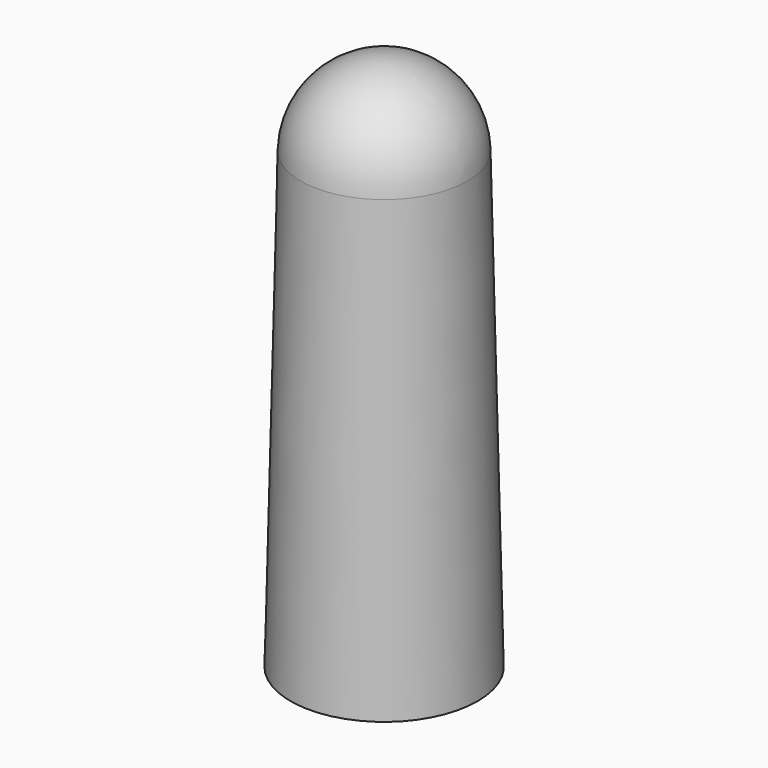
from build123d import *


with BuildPart() as f2:
    # F0 (on Front) → F2 (revolve)
    with BuildSketch(Plane.XZ):
        with BuildLine():
            ThreePointArc((0, 76.2), (6.393773, 73.593938), (9.144, 67.260838))
            Line((9.144, 67.260838), (10.668, 0))
            Line((10.668, 0), (13.842185, 0.071921))
            Line((13.842185, 0.071921), (12.318185, 67.332759))
            ThreePointArc((12.318185, 67.332759), (8.613264, 75.864287), (0, 79.375))
            Line((0, 79.375), (0, 76.2))
        make_face()
    revolve(axis=Axis((0, 0, 30.799851), (0, 0, 1)))


solid = f2.part
